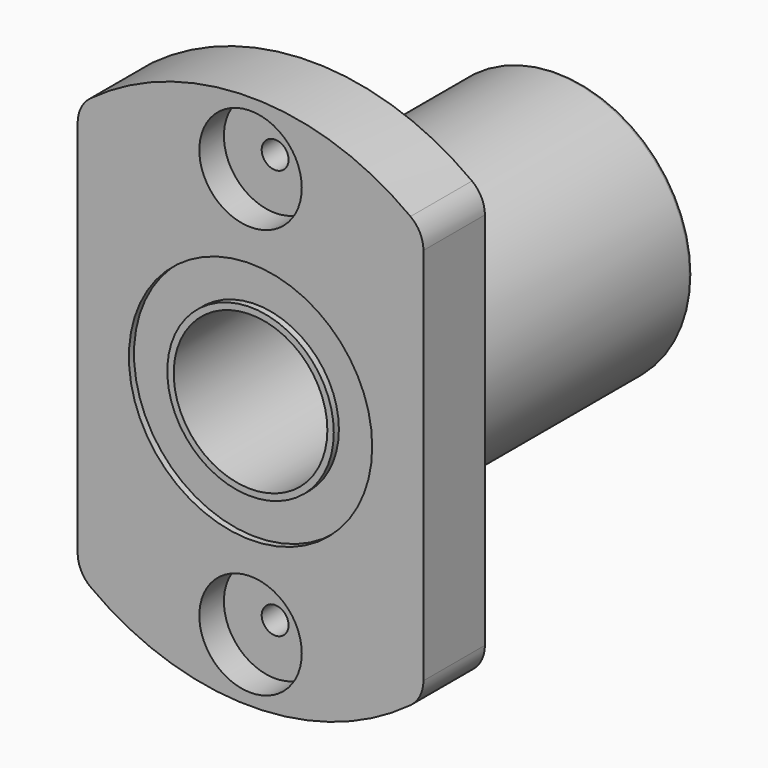
from build123d import *

# Parameters (mm, degrees)
SKETCH_R         = 9.5
PAD_DEPTH        = 6
HOLE_D           = 2.1
HOLE_CBORE_D     = 8
HOLE_CBORE_DEPTH = 2.4
SKETCH002_R      = 10.5
SKETCH002_R_2    = 9.5
PAD001_DEPTH     = 24
FILLET_R         = 2.5
FILLET001_R      = 0.3
SKETCH003_R      = 9.5
SKETCH003_R_2    = 6.5
PAD002_DEPTH     = 29
SKETCH004_R      = 6.5
SKETCH004_R_2    = 6
PAD003_DEPTH     = 29.5


with BuildPart() as body:
    # Sketch → Pad (new body)
    with BuildSketch(Plane.XZ):
        with BuildLine():
            ThreePointArc((13.5, 16), (0, 20.934421), (-13.5, 16))
            Line((-13.5, 16), (-13.5, -16))
            ThreePointArc((-13.5, -16), (0, -20.934421), (13.5, -16))
            Line((13.5, 16), (13.5, -16))
        make_face()
        Circle(SKETCH_R, mode=Mode.SUBTRACT)
    extrude(amount=-PAD_DEPTH)

    # Hole (through all)
    with Locations(Plane.XZ):
        with Locations((0, 16), (0, -16)):
            CounterBoreHole(HOLE_D / 2, HOLE_CBORE_D / 2, HOLE_CBORE_DEPTH)

    # Sketch002 (on Face5 of Hole) → Pad001 (join)
    with BuildSketch(Plane(origin=(0, 6, 0), x_dir=(1, 0, 0), z_dir=(0, 1, 0))):
        Circle(SKETCH002_R)
        Circle(SKETCH002_R_2, mode=Mode.SUBTRACT)
    extrude(amount=PAD001_DEPTH)

    # Fillet
    fillet_edges = [body.edges().sort_by_distance(p)[0] for p in [
        (13.5, 3, -16),
        (13.5, 3, 16),
        (-13.5, 3, 16),
        (-13.5, 3, -16),
    ]]
    fillet(fillet_edges, radius=FILLET_R)

    # Fillet001
    fillet001_edges = [body.edges().sort_by_distance(p)[0] for p in [
        (-10.5, 30, 0),
        (-9.5, 30, 0),
    ]]
    fillet(fillet001_edges, radius=FILLET001_R)


with BuildPart() as body001:
    # Sketch003 → Pad002 (new body)
    with BuildSketch(Plane.XZ):
        Circle(SKETCH003_R)
        Circle(SKETCH003_R_2, mode=Mode.SUBTRACT)
    extrude(amount=-PAD002_DEPTH)


with BuildPart() as body001_1:
    # Body001 placement: moved
    add(body001.part.moved(Location((0, 0.5, 0))))


with BuildPart() as body002:
    # Sketch004 → Pad003 (new body)
    with BuildSketch(Plane.XZ):
        Circle(SKETCH004_R)
        Circle(SKETCH004_R_2, mode=Mode.SUBTRACT)
    extrude(amount=-PAD003_DEPTH)


solid = Compound([body.part, body001_1.part, body002.part])
